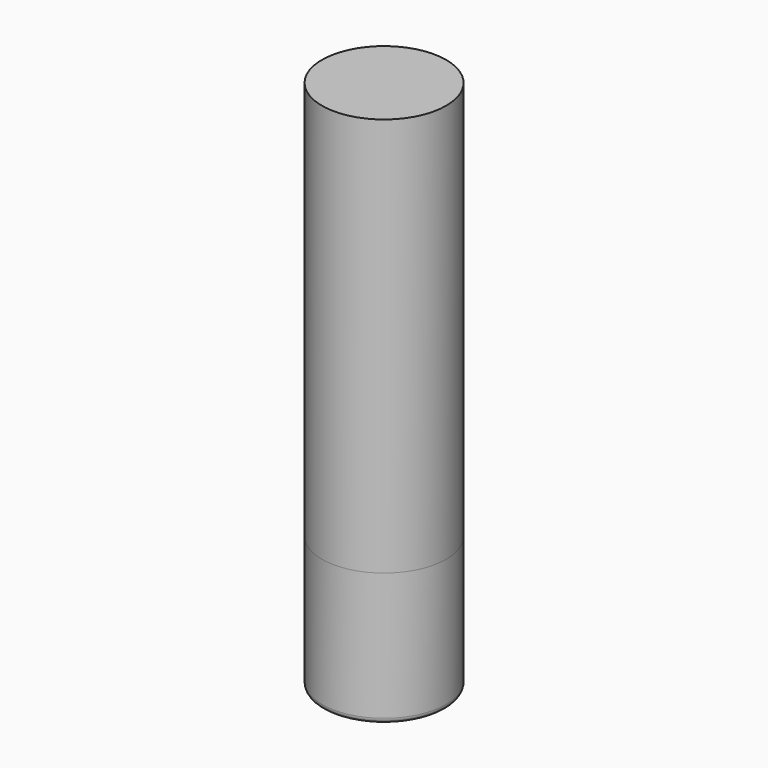
from build123d import *

# Parameters (mm, degrees)
F0_W = 8.89
F0_H = 57.15


with BuildPart() as f1:
    # F0 (on Front) → F1 (revolve)
    with BuildSketch(Plane.XZ):
        with BuildLine():
            Line((8.89, -57.15), (0, -57.15))
            Line((0, -57.15), (0, -76.2))
            Line((0, -76.2), (8.128, -76.2))
            ThreePointArc((8.128, -76.2), (8.666815, -75.976815), (8.89, -75.438))
            Line((8.89, -75.438), (8.89, -57.15))
        make_face()
    revolve(axis=Axis((0, 0, -66.675), (0, 0, 1)))


with BuildPart() as f2:
    # F0 (on Front) → F2 (revolve)
    with BuildSketch(Plane.XZ):
        with Locations((4.445, -28.575)):
            Rectangle(F0_W, F0_H)
    revolve(axis=Axis((0, 0, -28.575), (0, 0, 1)))


solid = Compound([f1.part, f2.part])
